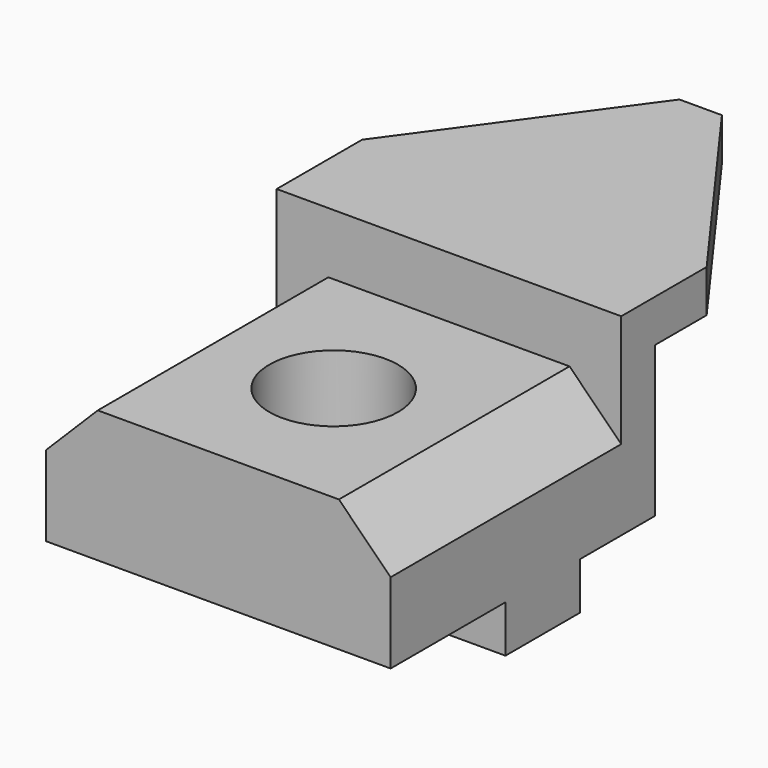
from build123d import *

# Parameters (mm, degrees)
F1_DEPTH  = 9.398
F2_W      = 76.2
F2_H      = 33.274
F3_DEPTH  = 9.398
F4_W      = 76.2
F4_H      = 29.2016597947
F5_DEPTH  = 63.754
F6_SIZE   = 11.43
F7_W      = 76.2
F7_H      = 20.574
F8_DEPTH  = 10.414
F9_R      = 14.224
F10_DEPTH = 221.488


with BuildPart() as f1:
    # F0 (on Top) → F1 (new body)
    with BuildSketch(Plane.XY):
        Polygon((-49.3122338645, 13.7030885327), (-49.3122338645, -9.9189114673), (26.8877661355, -9.9189114673), (26.8877661355, 13.7030885327), (-6.5132338645, 59.6770885327), (-15.9112338645, 59.6770885327), align=None)
    extrude(amount=F1_DEPTH)

    # F2 (on face) → F3 (join)
    with BuildSketch(Plane.XZ.offset(9.9189114673)):
        with Locations((-11.2122338645, -16.637)):
            Rectangle(F2_W, F2_H)
    extrude(amount=-F3_DEPTH)

    # F4 (on face) → F5 (join)
    with BuildSketch(Plane.XZ.offset(9.9189114673)):
        with Locations((-11.2122338645, -18.6731701027)):
            Rectangle(F4_W, F4_H)
    extrude(amount=F5_DEPTH)

    # F6
    f6_edges = [f1.edges().sort_by_distance(p)[0] for p in [
        (26.887766, -41.795911, -4.07234),
        (-49.312234, -41.795911, -4.07234),
    ]]
    chamfer(f6_edges, length=F6_SIZE)

    # F7 (on face) → F8 (join)
    with BuildSketch(Plane(origin=(0, 0, -33.274), x_dir=(1, 0, 0), z_dir=(0, 0, -1))):
        with Locations((-11.2122338645, 31.6359114673)):
            Rectangle(F7_W, F7_H)
    extrude(amount=F8_DEPTH)

    # F9 (on face) → F10 (cut)
    with BuildSketch(Plane.XY.offset(-4.0723402053)):
        with Locations((-11.2122338645, -41.7959114673)):
            Circle(F9_R)
    extrude(amount=-F10_DEPTH, mode=Mode.SUBTRACT)


solid = f1.part
